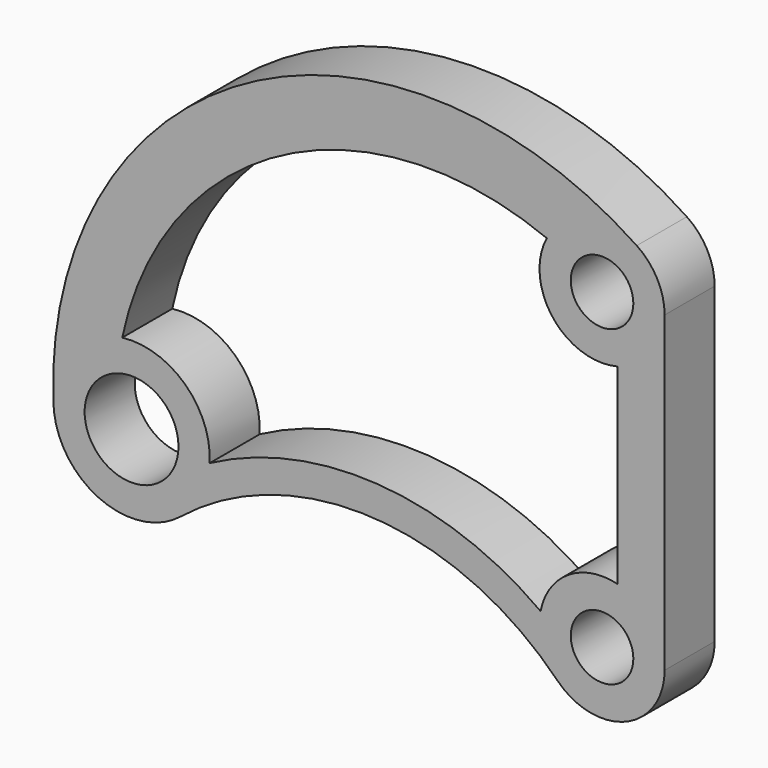
from build123d import *

# Parameters (mm, degrees)
F0_R     = 381
F0_R_2   = 254
F1_DEPTH = 508


with BuildPart() as f1:
    # F0 (on Front) → F1 (new body)
    with BuildSketch(Plane.XZ):
        with BuildLine():
            ThreePointArc((508, 2459.000759), (505.168538, 2461.669846), (502.333361, 2464.334987))
            ThreePointArc((502.333361, 2464.334987), (506.581359, 2502.061546), (508, 2540))
            ThreePointArc((508, 2540), (447.946112, 2779.600253), (281.983145, 2962.551187))
            ThreePointArc((281.983145, 2962.551187), (-2899.019317, 3086.731703), (-4455.65407, 309.84753))
            ThreePointArc((-4455.65407, 309.84753), (-4092.46741, -258.324114), (-3422.781404, -179.303737))
            ThreePointArc((-3422.781404, -179.303737), (-1858.216728, 321.322545), (-361.881258, -356.519221))
            ThreePointArc((-361.881258, -356.519221), (192.650358, -470.053018), (508, 0))
            Line((508, 0), (508, 2459.000759))
        make_face()
        with Locations((-3820.679872, 315.571813)):
            Circle(F0_R, mode=Mode.SUBTRACT)
        Circle(F0_R_2, mode=Mode.SUBTRACT)
        with BuildLine():
            Line((127, 2048.131115), (127, 491.868885))
            ThreePointArc((127, 491.868885), (-271.894452, 429.112348), (-498.995104, 95.22545))
            ThreePointArc((-498.995104, 95.22545), (-1815.871262, 573.144728), (-3185.822725, 280.223846))
            Line((-3185.822725, 280.223846), (-3186.742158, 278.857028))
            ThreePointArc((-3186.742158, 278.857028), (-3385.71377, 778.205026), (-3896.368164, 946.044875))
            ThreePointArc((-3896.368164, 946.044875), (-2601.904622, 2670.180193), (-448.631437, 2778.314568))
            ThreePointArc((-448.631437, 2778.314568), (-398.940678, 2225.499864), (127, 2048.131115))
        make_face(mode=Mode.SUBTRACT)
        with Locations((0, 2540)):
            Circle(F0_R_2, mode=Mode.SUBTRACT)
        with BuildLine():
            ThreePointArc((508, 2540), (506.581359, 2502.061546), (502.333361, 2464.334987))
            ThreePointArc((502.333361, 2464.334987), (505.168538, 2461.669846), (508, 2459.000759))
            Line((508, 2459.000759), (508, 2540))
        make_face()
        with BuildLine():
            ThreePointArc((508, 2459.000759), (505.168538, 2461.669846), (502.333361, 2464.334987))
            ThreePointArc((502.333361, 2464.334987), (506.581359, 2502.061546), (508, 2540))
            ThreePointArc((508, 2540), (447.946112, 2779.600253), (281.983145, 2962.551187))
            ThreePointArc((281.983145, 2962.551187), (-2899.019317, 3086.731703), (-4455.65407, 309.84753))
            ThreePointArc((-4455.65407, 309.84753), (-4092.46741, -258.324114), (-3422.781404, -179.303737))
            ThreePointArc((-3422.781404, -179.303737), (-1858.216728, 321.322545), (-361.881258, -356.519221))
            ThreePointArc((-361.881258, -356.519221), (192.650358, -470.053018), (508, 0))
            Line((508, 0), (508, 2459.000759))
        make_face()
        with Locations((-3820.679872, 315.571813)):
            Circle(F0_R, mode=Mode.SUBTRACT)
        Circle(F0_R_2, mode=Mode.SUBTRACT)
        with BuildLine():
            Line((127, 2048.131115), (127, 491.868885))
            ThreePointArc((127, 491.868885), (-271.894452, 429.112348), (-498.995104, 95.22545))
            ThreePointArc((-498.995104, 95.22545), (-1815.871262, 573.144728), (-3185.822725, 280.223846))
            Line((-3185.822725, 280.223846), (-3186.742158, 278.857028))
            ThreePointArc((-3186.742158, 278.857028), (-3385.71377, 778.205026), (-3896.368164, 946.044875))
            ThreePointArc((-3896.368164, 946.044875), (-2601.904622, 2670.180193), (-448.631437, 2778.314568))
            ThreePointArc((-448.631437, 2778.314568), (-398.940678, 2225.499864), (127, 2048.131115))
        make_face(mode=Mode.SUBTRACT)
        with Locations((0, 2540)):
            Circle(F0_R_2, mode=Mode.SUBTRACT)
    extrude(amount=F1_DEPTH)


solid = f1.part
